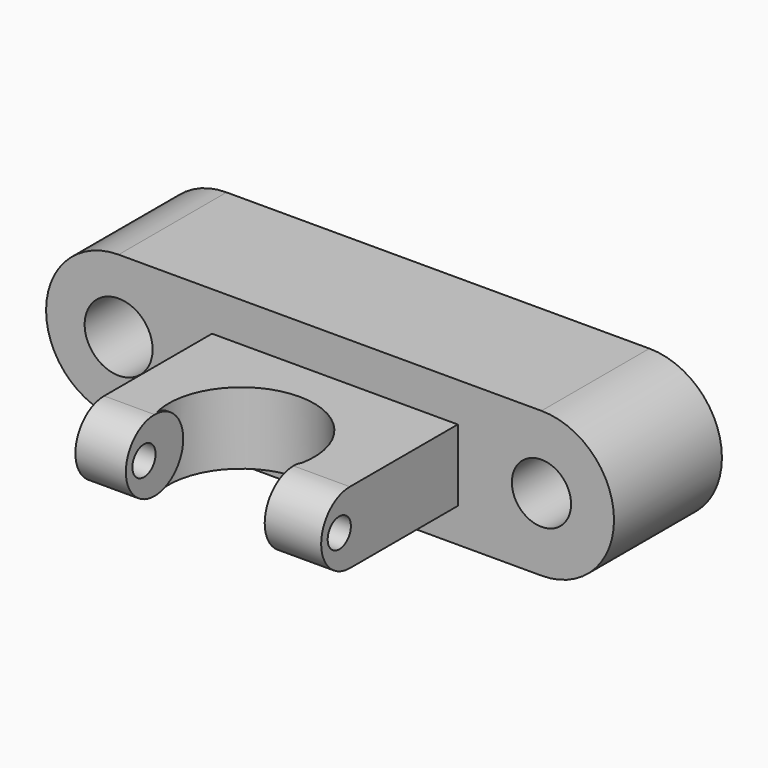
from build123d import *

# Parameters (mm, degrees)
F0_R      = 6.3984297888
F0_R_2    = 5.5753
F1_DEPTH  = 25.4
F2_W      = 46.2799873203
F2_H      = 13.5046518408
F3_DEPTH  = 25.4
F5_DEPTH  = 69.342
F6_W      = 9.5002483577
F6_H      = 6.7523259204
F7_W      = 10.6321182102
F7_H      = 6.7523259204
F10_R     = 2.7327204499
F11_DEPTH = 182.626


with BuildPart() as f1:
    # F0 (on Front) → F1 (new body)
    with BuildSketch(Plane.XZ):
        with BuildLine():
            Line((43.7605383081, 27.3248670252), (-35.8691346556, 27.3248670252))
            ThreePointArc((-35.8691346556, 27.3248670252), (-49.5315681682, 13.6624335126), (-35.8691346556, 0))
            Line((-35.8691346556, 0), (43.7605383081, 0))
            ThreePointArc((43.7605383081, 0), (57.4229718207, 13.6624335126), (43.7605383081, 27.3248670252))
        make_face()
        with Locations((-35.8691346556, 13.6624335126)):
            Circle(F0_R, mode=Mode.SUBTRACT)
        with Locations((43.7605383081, 13.6624335126)):
            Circle(F0_R_2, mode=Mode.SUBTRACT)
    extrude(amount=F1_DEPTH)

    # F2 (on face) → F3 (join)
    with BuildSketch(Plane.XZ.offset(25.4)):
        with Locations((4.8549743369, 13.1856810767)):
            Rectangle(F2_W, F2_H)
    extrude(amount=F3_DEPTH)

    # F4 (on face) → F5 (cut)
    with BuildSketch(Plane(origin=(0, 0, 6.4333551563), x_dir=(1, 0, 0), z_dir=(0, 0, -1))):
        with BuildLine():
            Line((17.3628497869, 50.8), (-8.7847709656, 50.8))
            ThreePointArc((-8.7847709656, 50.8), (4.2890394107, 33.0230943258), (17.3628497869, 50.8))
        make_face()
    extrude(amount=-F5_DEPTH, mode=Mode.SUBTRACT)

    # F6 (on face) → F8 (revolve)
    with BuildSketch(Plane.XZ.offset(50.8)):
        with Locations((-13.5348951444, 9.8095181165)):
            Rectangle(F6_W, F6_H)
    revolve(axis=Axis((-13.5348951444, -50.8, 13.1856810767), (1, 0, 0)))

    # F7 (on face) → F9 (revolve)
    with BuildSketch(Plane.XZ.offset(50.8)):
        with Locations((22.678908892, 9.8095181165)):
            Rectangle(F7_W, F7_H)
    revolve(axis=Axis((22.678908892, -50.8, 13.1856810767), (1, 0, 0)))

    # F10 (on face) → F11 (cut)
    with BuildSketch(Plane.YZ.offset(27.9949679971)):
        with Locations((-53.2889179885, 13.3134396747)):
            Circle(F10_R)
    extrude(amount=-F11_DEPTH, mode=Mode.SUBTRACT)


solid = f1.part
